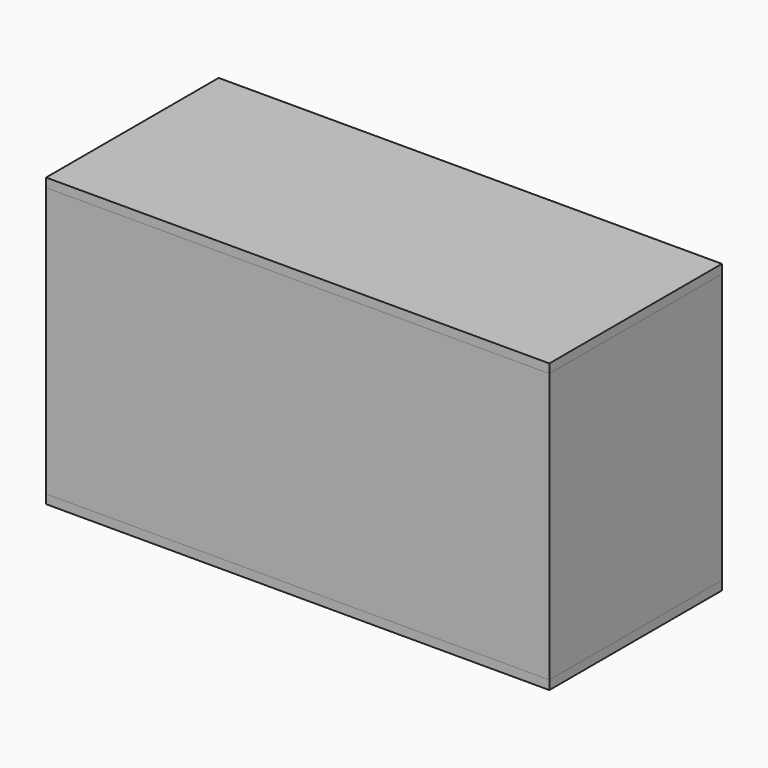
from build123d import *

# Parameters (mm, degrees)
F1_W     = 711.2
F1_H     = 304.8
F2_DEPTH = 12.7
F3_W     = 711.2
F3_H     = 304.8
F4_DEPTH = 12.7
F6_DEPTH = 381
F8_DEPTH = 381


with BuildPart() as f2:
    # F1 (on Top) → F2 (new body)
    with BuildSketch(Plane.XY):
        with Locations((355.6, 152.4)):
            Rectangle(F1_W, F1_H)
    extrude(amount=F2_DEPTH)


with BuildPart() as f4:
    # F3 (on offset) → F4 (new body)
    with BuildSketch(Plane.XY.offset(406.4)):
        with Locations((355.6, 152.4)):
            Rectangle(F3_W, F3_H)
    extrude(amount=-F4_DEPTH)


with BuildPart() as f6:
    # F5 (on face) → F6 (new body, through all)
    with BuildSketch(Plane.XY.offset(12.7)):
        Polygon((711.2, 304.8), (0, 304.8), (6.35, 298.45), (704.85, 298.45), align=None)
    extrude(amount=F6_DEPTH)


with BuildPart() as f8:
    # F7 (on face) → F8 (new body, through all)
    with BuildSketch(Plane.XY.offset(12.7)):
        Polygon((6.35, 298.45), (0, 304.8), (0, 0), (6.35, 6.35), align=None)
    extrude(amount=F8_DEPTH)


with BuildPart() as f11_1:
    # F11: instance of F8
    add(f8.part.mirror(Plane(origin=(355.6, 152.4, 6.35), x_dir=(0, 1, 0), z_dir=(1, 0, 0))))


with BuildPart() as f12_1:
    # F12: instance of F6
    add(f6.part.mirror(Plane(origin=(355.6, 152.4, 6.35), x_dir=(1, 0, 0), z_dir=(0, -1, 0))))


solid = Compound([f2.part, f4.part, f6.part, f8.part, f11_1.part, f12_1.part])
